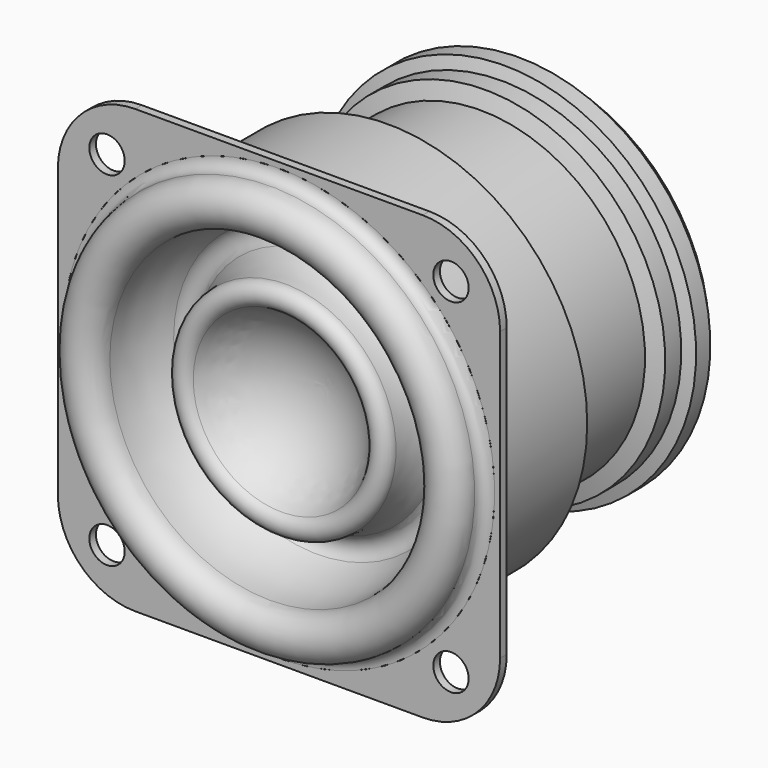
from build123d import *

# Parameters (mm, degrees)
F0_R     = 1.6
F0_R_2   = 19.5
F1_DEPTH = 0.75


with BuildPart() as f1:
    # F0 (on Front) → F1 (new body)
    with BuildSketch(Plane.XZ):
        with BuildLine():
            ThreePointArc((-20, -13), (-17.949747, -17.949747), (-13, -20))
            Line((-13, -20), (13, -20))
            ThreePointArc((13, -20), (17.949747, -17.949747), (20, -13))
            Line((20, -13), (20, 13))
            ThreePointArc((20, 13), (17.949747, 17.949747), (13, 20))
            Line((13, 20), (-13, 20))
            ThreePointArc((-13, 20), (-17.949747, 17.949747), (-20, 13))
            Line((-20, 13), (-20, -13))
        make_face()
        with Locations((-15.556349, -15.556349)):
            Circle(F0_R, mode=Mode.SUBTRACT)
        with Locations((15.556349, -15.556349)):
            Circle(F0_R, mode=Mode.SUBTRACT)
        with Locations((-15.556349, 15.556349)):
            Circle(F0_R, mode=Mode.SUBTRACT)
        Circle(F0_R_2, mode=Mode.SUBTRACT)
        with Locations((15.556349, 15.556349)):
            Circle(F0_R, mode=Mode.SUBTRACT)
    extrude(amount=F1_DEPTH)


with BuildPart() as f3:
    # F2 (on Top) → F3 (revolve)
    with BuildSketch(Plane.XY):
        with BuildLine():
            ThreePointArc((-7.986722, -0.460736), (-4.710283, 3.183334), (0, 4.535196))
            Line((0, 4.535196), (0, 6.535196))
            ThreePointArc((0, 6.535196), (-5.281446, 5.16761), (-9.235401, 1.408593))
            ThreePointArc((-9.235401, 1.408593), (-10.386921, 5.704695), (-14.702313, 4.627718))
            ThreePointArc((-14.702313, 4.627718), (-16.103516, 1.336515), (-16.490971, -2.219504))
            ThreePointArc((-16.490971, -2.219504), (-17.690336, -0.859912), (-19.5, -0.75))
            ThreePointArc((-19.5, -0.75), (-18.792893, -1.042893), (-18.5, -1.75))
            ThreePointArc((-18.5, -1.75), (-16.5, -3.75), (-14.5, -1.75))
            ThreePointArc((-14.5, -1.75), (-14.116999, 1.02052), (-12.996725, 3.583224))
            ThreePointArc((-12.996725, 3.583224), (-11.996725, 4.143445), (-10.996725, 3.583224))
            ThreePointArc((-10.996725, 3.583224), (-10.244048, 1.861424), (-9.986722, 0))
            ThreePointArc((-9.986722, 0), (-9.170054, -1.026192), (-7.986722, -0.460736))
        make_face()
    revolve(axis=Axis((0, 5.535196, 0), (0, 1, 0)))


with BuildPart() as f5:
    # F4 (on Top) → F5 (revolve)
    with BuildSketch(Plane.XY):
        Polygon((-15.384723, 6.712185), (0, 6.712185), (0, 31.25), (-10.044649, 31.25), (-16.283499, 27.523339), (-16.283499, 26.749494), (-17.323653, 26.370909), (-17.323653, 24.759691), (-16.283499, 24.381105), (-16.283499, 22.57132), (-14.86549, 22.055207), (-14.86549, 13.067142), (-18, 11.601), (-18, 0), (-17.448959, 0), align=None)
    revolve(axis=Axis((0, 18.981093, 0), (0, 1, 0)))


solid = Compound([f1.part, f3.part, f5.part])
